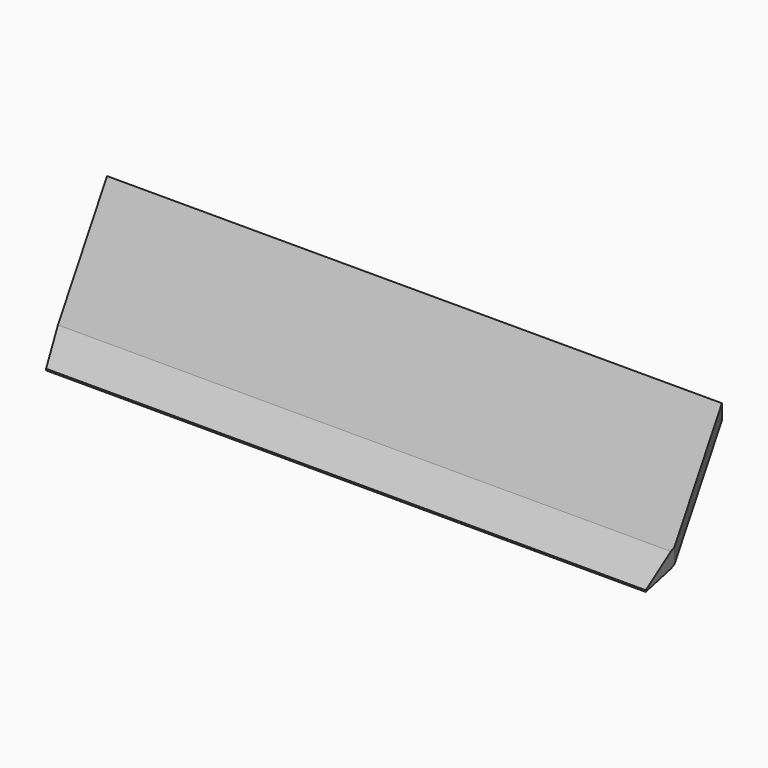
from build123d import *

# Parameters (mm, degrees)
F1_DEPTH = 0.508
F3_SIZE2 = 1.778
F3_SIZE  = 0.2286
F4_DEPTH = 25.4


with BuildPart() as f1:
    # F0 (on Top) → F1 (new body)
    with BuildSketch(Plane.XY):
        Polygon((20.530576, 0), (0, 0), (5.279291, -9.144), (25.809866, -9.144), align=None)
    extrude(amount=F1_DEPTH)

    # F3
    f3_edges = [f1.edges().sort_by_distance(p)[0] for p in [
        (15.544579, -9.144, 0.508),
        (15.544579, -9.144, 0),
    ]]
    chamfer(f3_edges, length=F3_SIZE, length2=F3_SIZE2)

    # F2 (on face) → F4 (cut)
    with BuildSketch(Plane.XY.offset(0.508)):
        Polygon((25.301866, -9.144), (25.809866, -9.144), (24.636691, -7.112), align=None)
    extrude(amount=-F4_DEPTH, mode=Mode.SUBTRACT)


solid = f1.part
